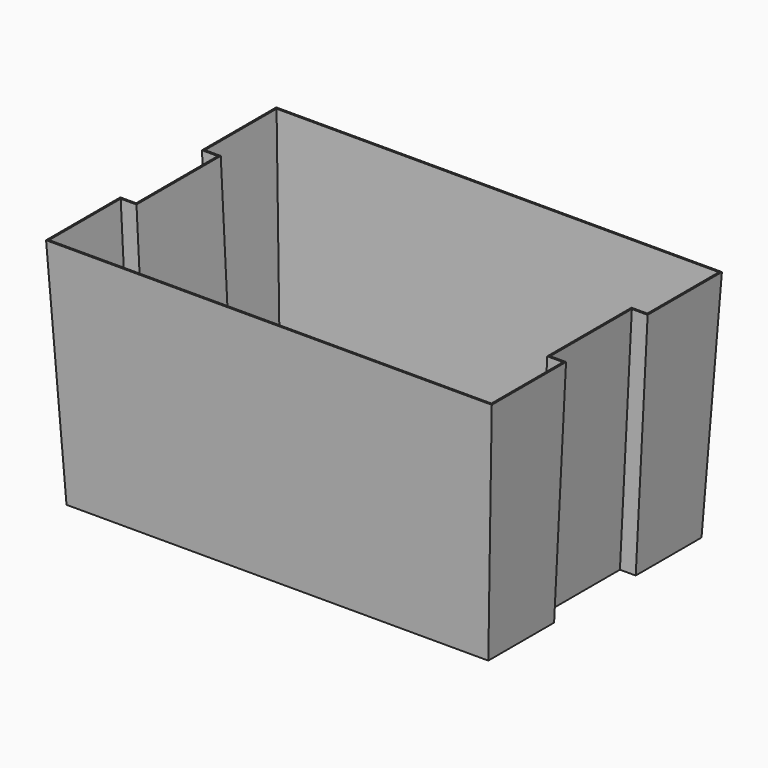
from build123d import *

# Parameters (mm, degrees)
F4_T = 2


with BuildPart() as f3:
    # F0 (on Top) → F3 section 0
    with BuildSketch(Plane.XY):
        Polygon((252.4125, 158.75), (-252.4125, 158.75), (-252.4125, 63.5), (-233.3625, 63.5), (-233.3625, -63.5), (-252.4125, -63.5), (-252.4125, -158.75), (252.4125, -158.75), (252.4125, -63.5), (233.3625, -63.5), (233.3625, 63.5), (252.4125, 63.5), align=None)
    # F2 (on offset) → F3 section 1
    with BuildSketch(Plane.XY.offset(279.4)):
        Polygon((266.7, 171.45), (-266.7, 171.45), (-266.7, 63.5), (-247.65, 63.5), (-247.65, -63.5), (-266.7, -63.5), (-266.7, -171.45), (266.7, -171.45), (266.7, -63.5), (247.65, -63.5), (247.65, 63.5), (266.7, 63.5), align=None)
    loft()

    # F4
    f4_openings = [f3.faces().sort_by_distance(p)[0] for p in [
        (0, 0, 279.4),
    ]]
    offset(amount=F4_T, openings=f4_openings, kind=Kind.INTERSECTION)


solid = f3.part
